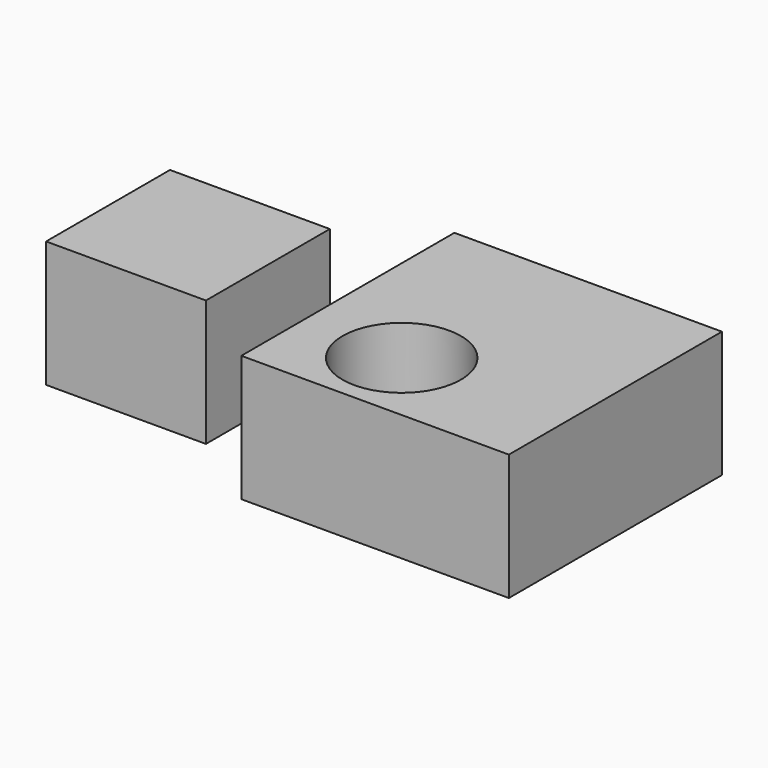
from build123d import *

# Parameters (mm, degrees)
F0_W     = 16.0754136741
F0_H     = 15.571044758
F1_DEPTH = 12.7
F2_W     = 26.9069522619
F2_H     = 26.7808251083
F3_DEPTH = 12.7
F5_D     = 11.90752


with BuildPart() as f1:
    # F0 (on Top) → F1 (new body)
    with BuildSketch(Plane.XY):
        Rectangle(F0_W, F0_H)
    extrude(amount=F1_DEPTH)


with BuildPart() as f3:
    # F2 (on Top) → F3 (new body)
    with BuildSketch(Plane.XY):
        with Locations((29.5344181359, 0)):
            Rectangle(F2_W, F2_H)
    extrude(amount=F3_DEPTH)

    # F5 (through all)
    with Locations(Plane.XY.offset(12.7)):
        with Locations((26.135681197, -5.7972129434)):
            Hole(F5_D / 2)


solid = Compound([f1.part, f3.part])
